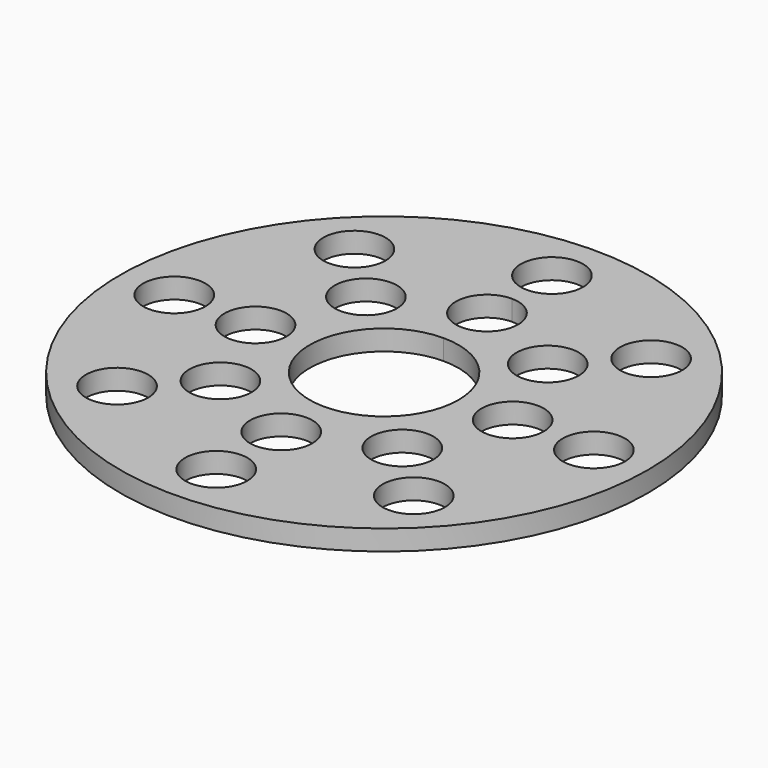
from build123d import *

# Parameters (mm, degrees)
F0_R     = 39
F0_R_2   = 4.6
F1_DEPTH = 3


with BuildPart() as f1:
    # F0 (on Top) → F1 (new body)
    with BuildSketch(Plane.XY):
        with BuildLine():
            ThreePointArc((0, 11), (-7.778175, -7.778175), (11, 0))
            ThreePointArc((11, 0), (7.778175, 7.778175), (0, 11))
        make_face()
        with BuildLine():
            ThreePointArc((4.6, 31), (-3.252691, 34.252691), (0, 26.4))
            ThreePointArc((0, 26.4), (3.252691, 27.747309), (4.6, 31))
        make_face()
        Circle(F0_R)
        with Locations((-21.92031, -21.92031)):
            Circle(F0_R_2, mode=Mode.SUBTRACT)
        with Locations((-13.435029, -13.435029)):
            Circle(F0_R_2, mode=Mode.SUBTRACT)
        with Locations((0, -31)):
            Circle(F0_R_2, mode=Mode.SUBTRACT)
        with Locations((21.92031, -21.92031)):
            Circle(F0_R_2, mode=Mode.SUBTRACT)
        with Locations((0, -19)):
            Circle(F0_R_2, mode=Mode.SUBTRACT)
        with Locations((13.435029, -13.435029)):
            Circle(F0_R_2, mode=Mode.SUBTRACT)
        with Locations((-31, 0)):
            Circle(F0_R_2, mode=Mode.SUBTRACT)
        with Locations((-19, 0)):
            Circle(F0_R_2, mode=Mode.SUBTRACT)
        with Locations((-13.435029, 13.435029)):
            Circle(F0_R_2, mode=Mode.SUBTRACT)
        with Locations((-21.92031, 21.92031)):
            Circle(F0_R_2, mode=Mode.SUBTRACT)
        with BuildLine():
            ThreePointArc((0, 11), (7.778175, 7.778175), (11, 0))
            ThreePointArc((11, 0), (-7.778175, -7.778175), (0, 11))
        make_face(mode=Mode.SUBTRACT)
        with Locations((19, 0)):
            Circle(F0_R_2, mode=Mode.SUBTRACT)
        with BuildLine():
            ThreePointArc((4.6, 19), (3.252691, 15.747309), (0, 14.4))
            ThreePointArc((0, 14.4), (-4.6, 19), (0, 23.6))
            ThreePointArc((0, 23.6), (3.252691, 22.252691), (4.6, 19))
        make_face(mode=Mode.SUBTRACT)
        with Locations((13.435029, 13.435029)):
            Circle(F0_R_2, mode=Mode.SUBTRACT)
        with Locations((31, 0)):
            Circle(F0_R_2, mode=Mode.SUBTRACT)
        with BuildLine():
            ThreePointArc((4.6, 31), (3.252691, 27.747309), (0, 26.4))
            ThreePointArc((0, 26.4), (-3.252691, 34.252691), (4.6, 31))
        make_face(mode=Mode.SUBTRACT)
        with Locations((21.92031, 21.92031)):
            Circle(F0_R_2, mode=Mode.SUBTRACT)
    extrude(amount=F1_DEPTH)


solid = f1.part
